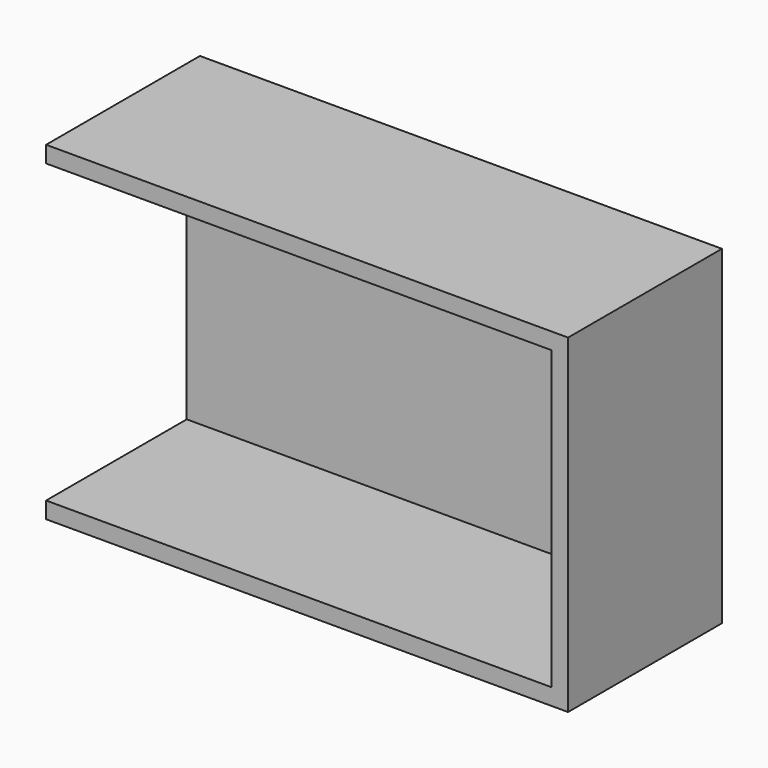
from build123d import *

# Parameters (mm, degrees)
BOX026_W     = 47.5
BOX026_H     = 16
BOX026_DEPTH = 27
BOX027_W     = 47.5
BOX027_H     = 17.5
BOX027_DEPTH = 30


with BuildPart() as cube026:
    # Box026 → Box026 (new body)
    with BuildSketch(Plane(origin=(-1.5, 0, 60), x_dir=(1, 0, 0), z_dir=(0, 0, 1))):
        with Locations((23.75, 8)):
            Rectangle(BOX026_W, BOX026_H)
    extrude(amount=BOX026_DEPTH)


with BuildPart() as cut035:
    # Box027 → Box027 (new body)
    with BuildSketch(Plane.XY.offset(58.5)):
        with Locations((23.75, 8.75)):
            Rectangle(BOX027_W, BOX027_H)
    extrude(amount=BOX027_DEPTH)

    # Cut035: cut Cube026
    add(cube026.part, mode=Mode.SUBTRACT)


with BuildPart() as cut035_1:
    # Cut035 placement: moved
    add(cut035.part.moved(Location((77.5, 115.4, -58.5))))


solid = cut035_1.part
